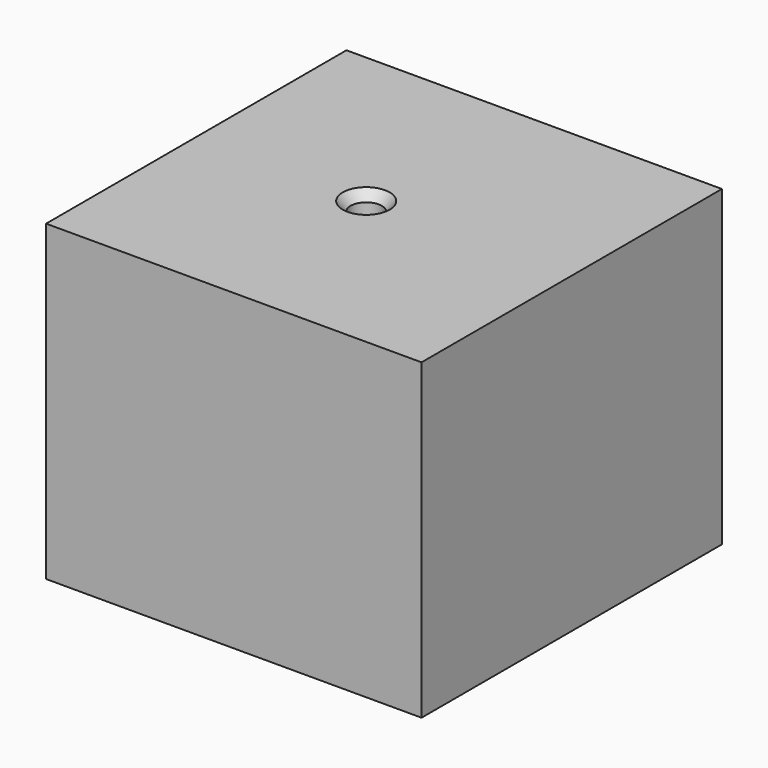
from build123d import *

# Parameters (mm, degrees)
F0_W           = 120
F0_H           = 120
F1_DEPTH       = 100
F3_D           = 10
F3_DEPTH       = 12
F3_CSINK_D     = 15
F3_CSINK_ANGLE = 80
F3_TIP         = 3.0043030951


with BuildPart() as f1:
    # F0 (on Top) → F1 (new body)
    with BuildSketch(Plane.XY):
        with Locations((-5.5754296482, 8.0556598505)):
            Rectangle(F0_W, F0_H)
    extrude(amount=F1_DEPTH)

    # F3
    with Locations(Plane.XY.offset(100)):
        with Locations((-10.8280926943, 7.5109833851)):
            CounterSinkHole(F3_D / 2, F3_CSINK_D / 2, depth=F3_DEPTH, counter_sink_angle=F3_CSINK_ANGLE)
            with Locations((0, 0, -(F3_DEPTH + F3_TIP / 2))):  # 118° drill point
                Cone(0, F3_D / 2, F3_TIP, mode=Mode.SUBTRACT)


solid = f1.part
